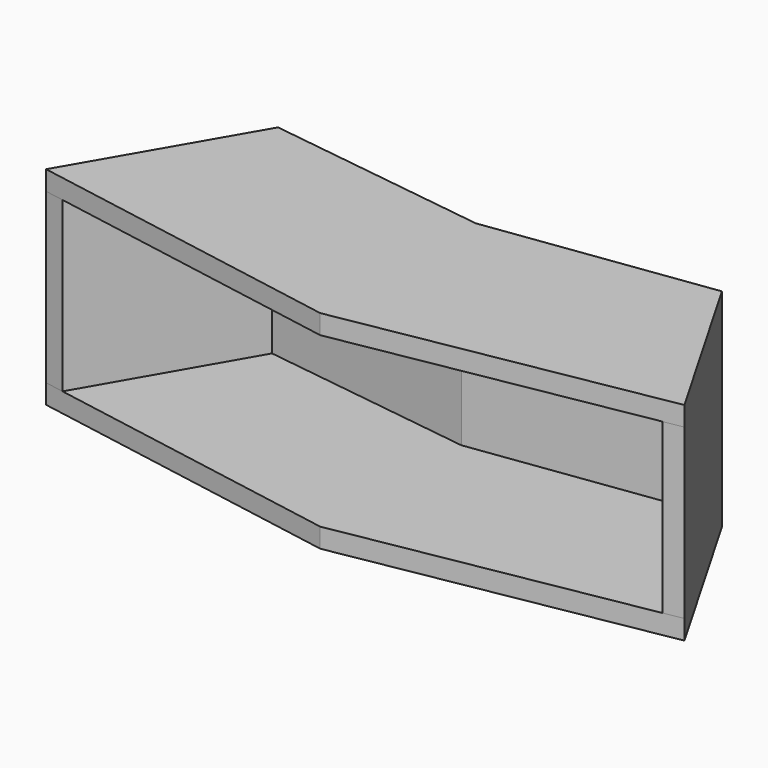
from build123d import *

# Parameters (mm, degrees)
F1_DEPTH = 15
F3_DEPTH = 130
F5_DEPTH = 15


with BuildPart() as f1:
    # F0 (on Top) → F1 (new body)
    with BuildSketch(Plane.XY):
        Polygon((171.201938, 23.315855), (0, 0), (0, -150), (246.201938, -106.587956), align=None)
        Polygon((0, -150), (0, 0), (-171.201938, 23.315855), (-246.201938, -106.587956), align=None)
    extrude(amount=F1_DEPTH)

    # F2 (on face) → F3 (join)
    with BuildSketch(Plane.XY.offset(15)):
        Polygon((-171.201938, 23.315855), (-246.201938, -106.587956), (-231.429822, -109.192678), (-163.82086, 8.290785), (0, -14.019847), (163.82086, 8.290785), (231.429822, -109.192678), (246.201938, -106.587956), (171.201938, 23.315855), (156.339139, 21.291702), (0, 0), (-156.339139, 21.291702), align=None)
    extrude(amount=F3_DEPTH)

    # F4 (on face) → F5 (join)
    with BuildSketch(Plane.XY.offset(145)):
        Polygon((-171.201938, 23.315855), (-246.201938, -106.587956), (0, -150), (246.201938, -106.587956), (171.201938, 23.315855), (0, 0), align=None)
    extrude(amount=F5_DEPTH)


solid = f1.part
